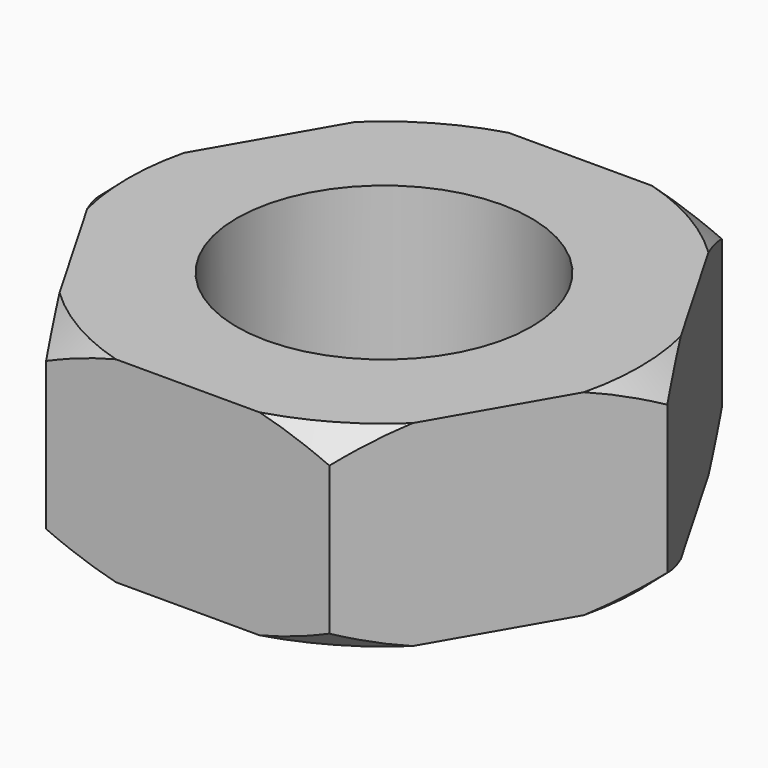
from build123d import *

# Parameters (mm, degrees)
SKETCH_R  = 3
PAD_DEPTH = 2


with BuildPart() as part:
    # Sketch → Pad (new body, symmetric)
    with BuildSketch(Plane.XY):
        Polygon((2.886751, 5), (-2.886751, 5), (-5.773503, 0), (-2.886751, -5), (2.886751, -5), (5.773503, 0), align=None)
        Circle(SKETCH_R, mode=Mode.SUBTRACT)
    extrude(amount=PAD_DEPTH, both=True)

    # Sketch001 → Groove (revolve, cut)
    with BuildSketch(Plane.XZ):
        Polygon((4.606088, 2.527526), (6.100964, 1.220869), (6.100964, -1.220869), (4.606088, -2.527526), (7.425626, -2.527526), (7.425626, 2.527526), align=None)
    revolve(axis=Axis((0, 0, 0), (0, 0, 1)), mode=Mode.SUBTRACT)


solid = part.part
